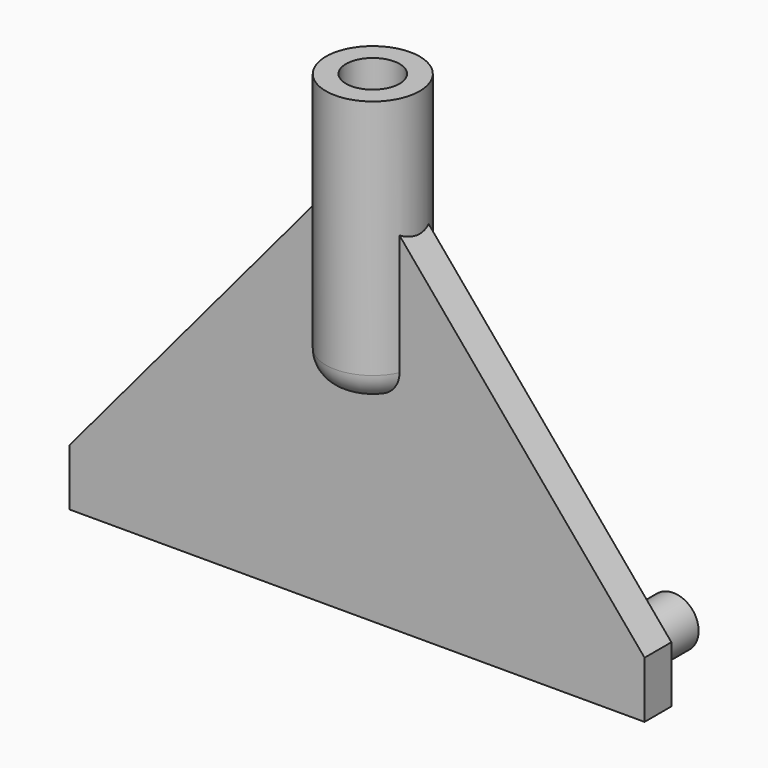
from build123d import *

# Parameters (mm, degrees)
F1_DEPTH  = 3.175
F2_R      = 2.3991188234
F3_DEPTH  = 6.35
F5_R      = 4.445
F6_DEPTH  = 25.4
F7_R      = 2.54
F8_R      = 2.54
F9_R      = 2.54
F10_DEPTH = 12.7


with BuildPart() as f1:
    # F0 (on Front) → F1 (new body)
    with BuildSketch(Plane.XZ):
        Polygon((27.2537042447, 5.3584766197), (0, 37.8381765649), (-27.2537042447, 5.3584766197), (-27.2537042447, 0), (27.2537042447, 0), align=None)
    extrude(amount=F1_DEPTH)

    # F2 (on face) → F3 (join)
    with BuildSketch(Plane(origin=(0, 0, 0), x_dir=(-1, 0, 0), z_dir=(0, 1, 0))):
        with Locations((16.764, 3.2841927184)):
            Circle(F2_R)
        with Locations((11.176, 3.1603162362)):
            Circle(F2_R)
        with Locations((5.588, 3.036439754)):
            Circle(F2_R)
        with Locations((22.352, 3.4080692006)):
            Circle(F2_R)
        with Locations((0, 2.9125632718)):
            Circle(F2_R)
        with Locations((-5.5895148385, 2.9125632718)):
            Circle(F2_R)
        with Locations((-11.179029677, 2.9125632718)):
            Circle(F2_R)
        with Locations((-22.358059354, 2.9125632718)):
            Circle(F2_R)
        with Locations((-16.7685445155, 2.9125632718)):
            Circle(F2_R)
    extrude(amount=F3_DEPTH)

    # F5 (on offset) → F6 (join)
    with BuildSketch(Plane.XY.offset(19.05)):
        with Locations((0, -1.302275006)):
            Circle(F5_R)
    extrude(amount=F6_DEPTH)

    # F7
    f7_edges = [f1.edges().sort_by_distance(p)[0] for p in [
        (0, 3.142725, 19.05),
    ]]
    fillet(f7_edges, radius=F7_R)

    # F8
    f8_edges = [f1.edges().sort_by_distance(p)[0] for p in [
        (0, -5.747275, 19.05),
    ]]
    fillet(f8_edges, radius=F8_R)

    # F9 (on face) → F10 (cut)
    with BuildSketch(Plane.XY.offset(44.45)):
        with Locations((0, -1.302275006)):
            Circle(F9_R)
    extrude(amount=-F10_DEPTH, mode=Mode.SUBTRACT)


solid = f1.part
